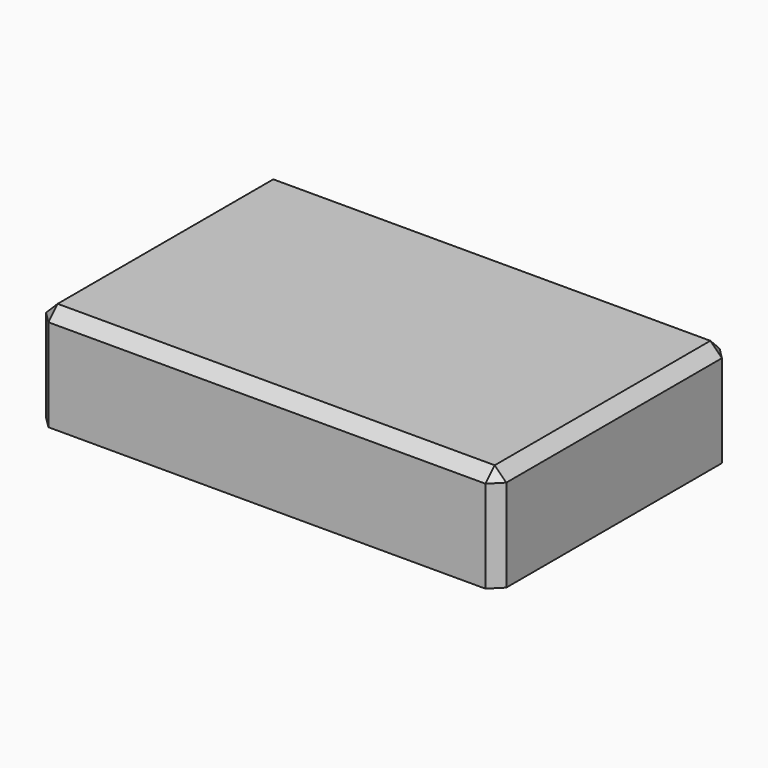
from build123d import *

# Parameters (mm, degrees)
SKETCH033_W     = 119.5
SKETCH033_H     = 76
SKETCH033_W_2   = 105.5
SKETCH033_H_2   = 62
PAD011_DEPTH    = 20
SKETCH034_W     = 119.5
SKETCH034_H     = 76
PAD012_DEPTH    = 7
SKETCH035_W     = 12.399995
SKETCH035_H     = 14
POCKET012_DEPTH = 7
CHAMFER_SIZE    = 6
FILLET_R        = 7
SKETCH037_R     = 1.45
POCKET013_DEPTH = 15
CHAMFER006_SIZE = 3


with BuildPart() as part:
    # Sketch033 (on Face1 of Binder012) → Pad011 (new body)
    with BuildSketch(Plane.XY.offset(-1.6)):
        with Locations((50.75, -29)):
            Rectangle(SKETCH033_W, SKETCH033_H)
        with Locations((50.75, -29)):
            Rectangle(SKETCH033_W_2, SKETCH033_H_2, mode=Mode.SUBTRACT)
    extrude(amount=PAD011_DEPTH)

    # Sketch034 (on Face10 of Pad011) → Pad012 (join)
    with BuildSketch(Plane.XY.offset(18.4)):
        with Locations((50.75, -29)):
            Rectangle(SKETCH034_W, SKETCH034_H)
    extrude(amount=PAD012_DEPTH)

    # Sketch035 (on Face9 of Pad012) → Pocket012 (cut)
    with BuildSketch(Plane(origin=(0, 9, 0), x_dir=(-1, 0, 0), z_dir=(0, 1, 0))):
        with Locations((-70.371465, 5.4)):
            Rectangle(SKETCH035_W, SKETCH035_H)
    extrude(amount=-POCKET012_DEPTH, mode=Mode.SUBTRACT)

    # Chamfer
    chamfer_edges = [part.edges().sort_by_distance(p)[0] for p in [
        (70.371465, 9, 12.4),
        (64.171468, 9, 5.4),
        (76.571463, 9, 5.4),
    ]]
    chamfer(chamfer_edges, length=CHAMFER_SIZE)

    # Fillet
    fillet_edges = [part.edges().sort_by_distance(p)[0] for p in [
        (103.5, 2, 8.4),
        (-2, 2, 8.4),
        (-2, -60, 8.4),
        (103.5, -60, 8.4),
    ]]
    fillet(fillet_edges, radius=FILLET_R)

    # Sketch037 (on Face1 of Fillet) → Pocket013 (cut)
    with BuildSketch(Plane(origin=(0, 0, -1.6), x_dir=(1, 0, 0), z_dir=(0, 0, -1))):
        with Locations((-2, 60)):
            Circle(SKETCH037_R)
        with Locations((103.5, 60)):
            Circle(SKETCH037_R)
        with Locations((103.5, -2)):
            Circle(SKETCH037_R)
        with Locations((-2, -2)):
            Circle(SKETCH037_R)
    extrude(amount=-POCKET013_DEPTH, mode=Mode.SUBTRACT)

    # Chamfer006
    chamfer006_edges = [part.edges().sort_by_distance(p)[0] for p in [
        (110.5, 9, 11.9),
        (50.75, 9, 25.4),
        (110.5, -29, 25.4),
        (110.5, -67, 11.9),
        (50.75, -67, 25.4),
        (-9, 9, 11.9),
        (-9, -29, 25.4),
        (-9, -67, 11.9),
    ]]
    chamfer(chamfer006_edges, length=CHAMFER006_SIZE)


solid = part.part
